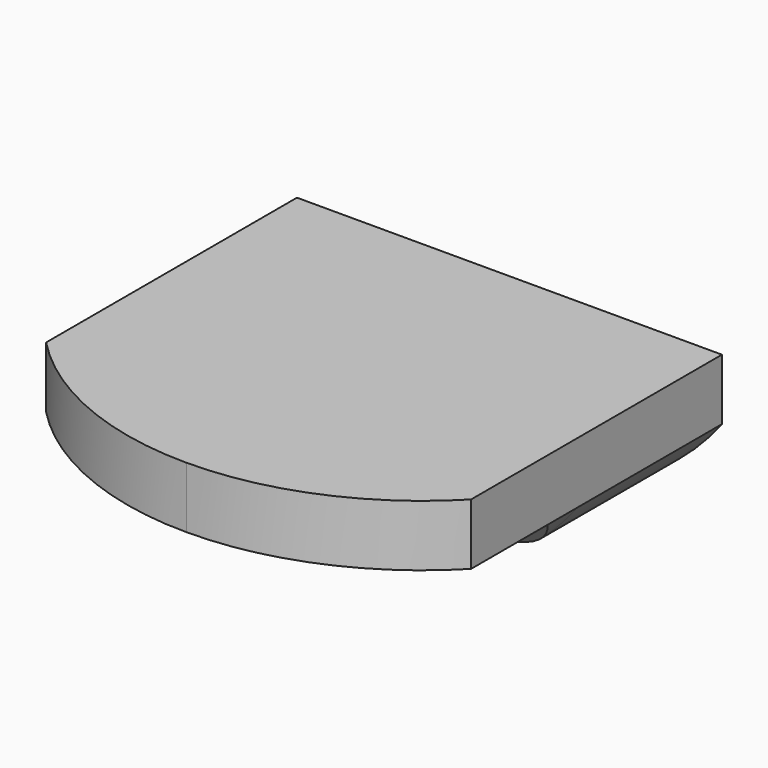
from build123d import *

# Parameters (mm, degrees)
F1_DEPTH  = 104.5
F3_DEPTH  = 127.001
F4_W      = 127
F4_H      = 62
F5_DEPTH  = 27
F7_DEPTH  = 93.5104
F8_W      = 237.597823
F8_H      = 212.603942
F9_DEPTH  = 64.76446
F11_DEPTH = 127.001
F12_DEPTH = 25.4
F13_W     = 127
F13_H     = 18.2746
F14_DEPTH = 28.575
F16_DEPTH = 127.001


with BuildPart() as f1:
    # F0 (on Front) → F1 (new body)
    with BuildSketch(Plane.XZ):
        with BuildLine():
            ThreePointArc((0, 62.5094), (-35.443943, 54.198998), (-63.5, 31))
            Line((-63.5, 31), (0, 31))
            Line((0, 31), (0, 62.5094))
        make_face()
        Polygon((0, 31), (-63.5, 31), (-63.5, -31), (0, -31), (0, 0), align=None)
        with BuildLine():
            Line((0, 62.5094), (0, 31))
            Line((0, 31), (63.5, 31))
            ThreePointArc((63.5, 31), (35.443943, 54.198998), (0, 62.5094))
        make_face()
        Polygon((63.5, 31), (0, 31), (0, 0), (0, -31), (63.5, -31), align=None)
        with BuildLine():
            Line((0, -31), (-63.5, -31))
            ThreePointArc((-63.5, -31), (-35.441854, -54.192308), (0, -62.5))
            Line((0, -62.5), (0, -31))
        make_face()
        with BuildLine():
            Line((63.5, -31), (0, -31))
            Line((0, -31), (0, -62.5))
            ThreePointArc((0, -62.5), (35.441854, -54.192308), (63.5, -31))
        make_face()
    extrude(amount=F1_DEPTH)

    # F2 (on face) → F3 (cut, through all)
    with BuildSketch(Plane.YZ.offset(63.5)):
        Polygon((-104.5, 72.844587), (-104.5, 31), (-62.5, 64.333223), align=None)
        Polygon((-62.5, -65.093011), (-104.5, -31), (-104.5, -67.313612), align=None)
    extrude(amount=-F3_DEPTH, mode=Mode.SUBTRACT)

    # F4 (on face) → F5 (join)
    with BuildSketch(Plane.XZ.offset(104.5)):
        Rectangle(F4_W, F4_H)
    extrude(amount=F5_DEPTH)

    # F6 (on face) → F7 (cut, through all)
    with BuildSketch(Plane(origin=(0, 0, -31), x_dir=(1, 0, 0), z_dir=(0, 0, -1))):
        with BuildLine():
            ThreePointArc((-63.5, 104.5), (-34.500906, 124.469723), (0, 131.5))
            Line((0, 131.5), (-63.5, 131.5))
            Line((-63.5, 131.5), (-63.5, 104.5))
        make_face()
        with BuildLine():
            ThreePointArc((0, 131.5), (34.500906, 124.469723), (63.5, 104.5))
            Line((63.5, 104.5), (63.5, 131.5))
            Line((63.5, 131.5), (0, 131.5))
        make_face()
    extrude(amount=-F7_DEPTH, mode=Mode.SUBTRACT)

    # F8 (on face) → F9 (cut)
    with BuildSketch(Plane(origin=(0, 0, 0), x_dir=(-1, 0, 0), z_dir=(0, 1, 0))):
        with Locations((30.433759, -29.178329)):
            Rectangle(F8_W, F8_H)
    extrude(amount=-F9_DEPTH, mode=Mode.SUBTRACT)

    # F10 (on face) → F11 (cut, through all)
    with BuildSketch(Plane.YZ.offset(63.5)):
        Polygon((-64.76446, -12.7254), (-64.76446, 0), (-64.76446, 76.2), (-148.139939, 76.2), (-148.139939, -12.7254), align=None)
    extrude(amount=-F11_DEPTH, mode=Mode.SUBTRACT)

    # F9_face (on face) → F12 (join)
    with BuildSketch(Plane(origin=(0, -64.76446, -33.868347), x_dir=(-1, 0, 0), z_dir=(0, 1, 0))):
        with BuildLine():
            ThreePointArc((-63.5, 2.868347), (0, -28.631653), (63.5, 2.868347))
            Line((63.5, 2.868347), (63.5, 21.142947))
            Line((63.5, 21.142947), (-63.5, 21.142947))
            Line((-63.5, 21.142947), (-63.5, 2.868347))
        make_face()
    extrude(amount=F12_DEPTH)

    # F13 (on face) → F14 (join)
    with BuildSketch(Plane(origin=(0, -39.36446, 0), x_dir=(-1, 0, 0), z_dir=(0, 1, 0))):
        with BuildLine():
            ThreePointArc((-63.5, -31), (0, -62.5), (63.5, -31))
            Line((63.5, -31), (-63.5, -31))
        make_face()
        with Locations((0, -21.8627)):
            Rectangle(F13_W, F13_H)
    extrude(amount=F14_DEPTH)

    # F15 (on face) → F16 (cut, through all)
    with BuildSketch(Plane(origin=(-63.5, 0, 0), x_dir=(0, -1, 0), z_dir=(-1, 0, 0))):
        Polygon((104.02593, -67.289479), (104.5, -31), (76.034166, -31), (42.225931, -64.199477), align=None)
    extrude(amount=-F16_DEPTH, mode=Mode.SUBTRACT)


solid = f1.part
